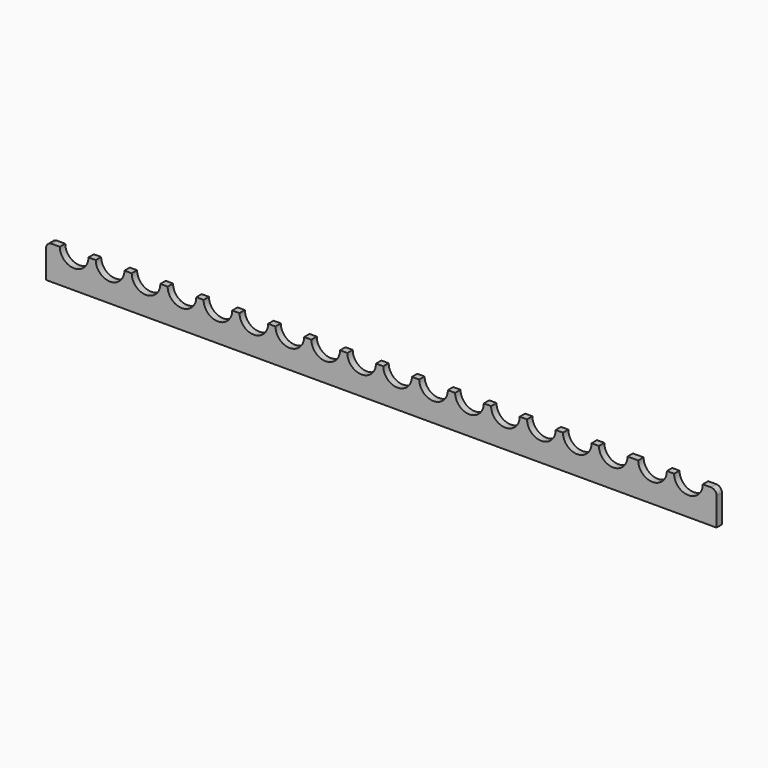
from build123d import *

# Parameters (mm, degrees)
F1_DEPTH = 6


with BuildPart() as f1:
    # F0 (on Front) → F1 (new body)
    with BuildSketch(Plane.XZ):
        with BuildLine():
            Line((-298.5, -15), (298.5, -15))
            Line((298.5, -15), (298.5, 10))
            ThreePointArc((298.5, 10), (297.035534, 13.535534), (293.5, 15))
            Line((293.5, 15), (286.25, 15))
            ThreePointArc((286.25, 15), (273.5, 2.25), (260.75, 15))
            Line((260.75, 15), (254.25, 15))
            ThreePointArc((254.25, 15), (241.5, 2.25), (228.75, 15))
            Line((228.75, 15), (219.25, 15))
            ThreePointArc((219.25, 15), (206.5, 2.25), (193.75, 15))
            Line((193.75, 15), (187.25, 15))
            ThreePointArc((187.25, 15), (174.5, 2.25), (161.75, 15))
            Line((161.75, 15), (155.25, 15))
            ThreePointArc((155.25, 15), (142.5, 2.25), (129.75, 15))
            Line((129.75, 15), (123.25, 15))
            ThreePointArc((123.25, 15), (110.5, 2.25), (97.75, 15))
            Line((97.75, 15), (91.25, 15))
            ThreePointArc((91.25, 15), (78.5, 2.25), (65.75, 15))
            Line((65.75, 15), (59.25, 15))
            ThreePointArc((59.25, 15), (46.5, 2.25), (33.75, 15))
            Line((33.75, 15), (27.249493, 15))
            ThreePointArc((27.249493, 15), (14.5, 2.363735), (1.750507, 15))
            Line((1.750507, 15), (-4.75, 15))
            ThreePointArc((-4.75, 15), (-17.5, 2.25), (-30.25, 15))
            Line((-30.25, 15), (-36.75, 15))
            ThreePointArc((-36.75, 15), (-49.5, 2.25), (-62.25, 15))
            Line((-62.25, 15), (-68.75, 15))
            ThreePointArc((-68.75, 15), (-81.5, 2.25), (-94.25, 15))
            Line((-94.25, 15), (-100.75, 15))
            ThreePointArc((-100.75, 15), (-113.5, 2.25), (-126.25, 15))
            Line((-126.25, 15), (-132.75, 15))
            ThreePointArc((-132.75, 15), (-145.5, 2.25), (-158.25, 15))
            Line((-158.25, 15), (-164.75, 15))
            ThreePointArc((-164.75, 15), (-177.5, 2.25), (-190.25, 15))
            Line((-190.25, 15), (-196.75, 15))
            ThreePointArc((-196.75, 15), (-209.5, 2.25), (-222.25, 15))
            Line((-222.25, 15), (-228.75, 15))
            ThreePointArc((-228.75, 15), (-241.5, 2.25), (-254.25, 15))
            Line((-254.25, 15), (-260.75, 15))
            ThreePointArc((-260.75, 15), (-273.5, 2.25), (-286.25, 15))
            Line((-286.25, 15), (-293.5, 15))
            ThreePointArc((-293.5, 15), (-297.035534, 13.535534), (-298.5, 10))
            Line((-298.5, 10), (-298.5, -15))
        make_face()
    extrude(amount=F1_DEPTH)


solid = f1.part
